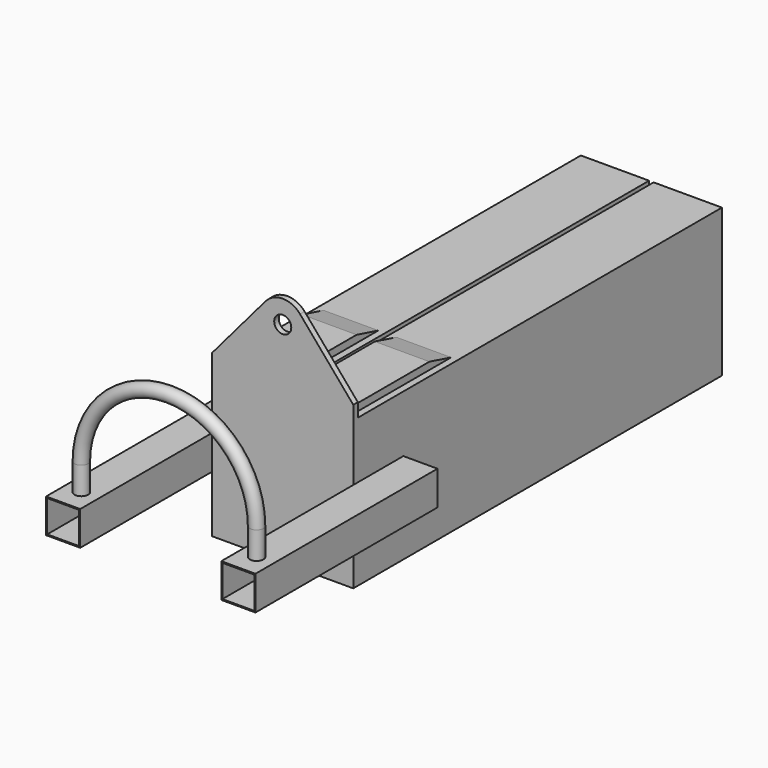
from build123d import *

# Parameters (mm, degrees)
F0_W      = 300
F0_H      = 650
F0_W_2    = 280
F0_H_2    = 630
F1_DEPTH  = 1000
F3_DEPTH  = 32
F5_DEPTH  = 560
F6_R      = 37.5
F7_DEPTH  = 25
F10_W     = 150
F10_H     = 150
F10_W_2   = 140
F10_H_2   = 140
F11_DEPTH = 1000
F12_R     = 30


with BuildPart() as f1:
    # F0 (on Front) → F1 (new body, symmetric)
    with BuildSketch(Plane.XZ):
        with Locations((-160, 0)):
            Rectangle(F0_W, F0_H)
        with Locations((-160, 0)):
            Rectangle(F0_W_2, F0_H_2, mode=Mode.SUBTRACT)
    extrude(amount=F1_DEPTH, both=True)


with BuildPart() as f1b:
    # F0 (on Front) → F1, piece 2 (new body, symmetric)
    with BuildSketch(Plane.XZ):
        with Locations((160, 0)):
            Rectangle(F0_W, F0_H)
        with Locations((160, 0)):
            Rectangle(F0_W_2, F0_H_2, mode=Mode.SUBTRACT)
    extrude(amount=F1_DEPTH, both=True)


with BuildPart() as f3:
    # F2 (on face) → F3 (new body)
    with BuildSketch(Plane.XY.offset(325)):
        Polygon((-40, -450), (-280, -450), (-280, -1000), (280, -1000), (280, -450), (40, -450), (40, -800), (-40, -800), align=None)
    extrude(amount=F3_DEPTH)

    # F4 (on face) → F5 (cut, through all)
    with BuildSketch(Plane.YZ.offset(280)):
        Polygon((-569.4256258422, 357), (-450, 325), (-450, 357), align=None)
    extrude(amount=-F5_DEPTH, mode=Mode.SUBTRACT)


with BuildPart() as f7:
    # F6 (on face) → F7 (new body)
    with BuildSketch(Plane.XZ.offset(1000)):
        with BuildLine():
            Line((-310, -325), (310, -325))
            Line((310, -325), (310, 385))
            Line((310, 385), (76.1589143518, 659.8060164241))
            ThreePointArc((76.1589143518, 659.8060164241), (0, 695), (-76.1589143518, 659.8060164241))
            Line((-76.1589143518, 659.8060164241), (-310, 385))
            Line((-310, 385), (-310, -325))
        make_face()
        with Locations((0, 595)):
            Circle(F6_R, mode=Mode.SUBTRACT)
    extrude(amount=F7_DEPTH)


with BuildPart() as f1_1:
    add(f1.part)

    # F8: union F1b, F3, F7
    add(f1b.part)
    add(f3.part)
    add(f7.part)

    # F10 (on offset) → F11 (join)
    with BuildSketch(Plane.XZ.offset(750)):
        with Locations((385, 0)):
            Rectangle(F10_W, F10_H)
        with Locations((385, 0)):
            Rectangle(F10_W_2, F10_H_2, mode=Mode.SUBTRACT)
        with Locations((-385, 0)):
            Rectangle(F10_W, F10_H)
        with Locations((-385, 0)):
            Rectangle(F10_W_2, F10_H_2, mode=Mode.SUBTRACT)
    extrude(amount=F11_DEPTH)

    # F15: sweep along a path in F14
    with BuildLine(Plane.XZ.offset(1650)) as f15_path:
        Line((385, 75), (385, 195))
        ThreePointArc((385, 195), (0, 580), (-385, 195))
        Line((-385, 195), (-385, 75))
    # F12 (on face) → F15 (sweep)
    with BuildSketch(Plane.XY.offset(75)):
        with Locations((385, -1650)):
            Circle(F12_R)
    sweep(path=f15_path.line)


solid = f1_1.part
